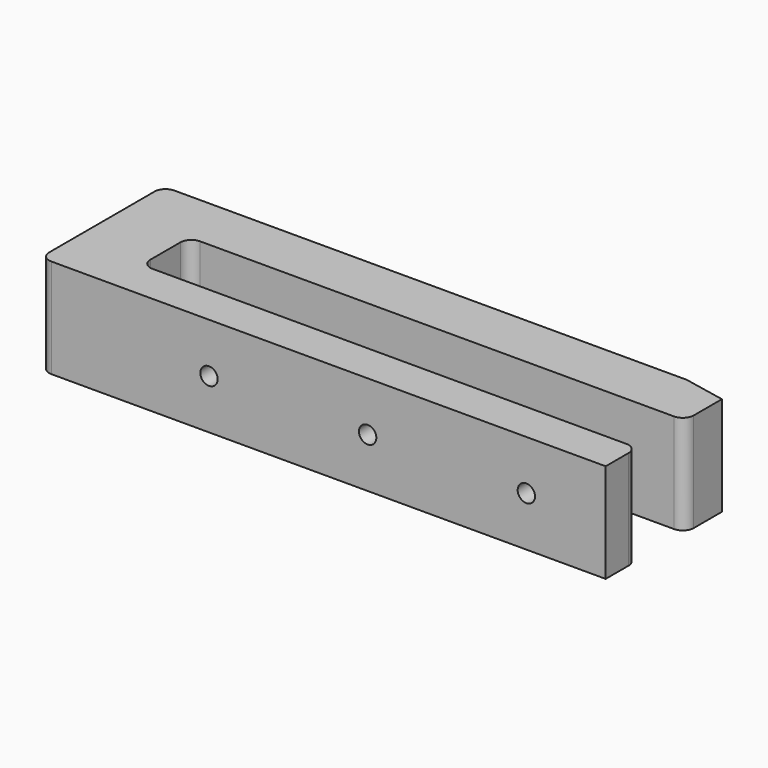
from build123d import *

# Parameters (mm, degrees)
F1_DEPTH = 5
F2_R     = 0.437463
F3_DEPTH = 4


with BuildPart() as f1:
    # F0 (on Top) → F1 (new body)
    with BuildSketch(Plane.XY):
        with BuildLine():
            Line((12.886932, 7.75), (-11.40201, 7.75))
            Line((-11.40201, 7.75), (-12.949545, 7.75))
            ThreePointArc((-12.949545, 7.75), (-13.338776, 7.588776), (-13.5, 7.199545))
            Line((-13.5, 7.199545), (-13.5, 0.550455))
            ThreePointArc((-13.5, 0.550455), (-13.338776, 0.161224), (-12.949545, 0))
            Line((-12.949545, 0), (15, 0))
            Line((15, 0), (15, 1.449545))
            ThreePointArc((15, 1.449545), (14.838776, 1.838776), (14.449545, 2))
            Line((14.449545, 2), (12.886932, 2))
            Line((12.886932, 2), (-9.449545, 2))
            ThreePointArc((-9.449545, 2), (-9.838776, 2.161224), (-10, 2.550455))
            Line((-10, 2.550455), (-10, 4.449545))
            ThreePointArc((-10, 4.449545), (-9.838776, 4.838775), (-9.449545, 5))
            Line((-9.449545, 5), (14.449545, 5))
            ThreePointArc((14.449545, 5), (14.838776, 5.161224), (15, 5.550454))
            Line((15, 5.550454), (15, 7.326077))
            Line((15, 7.326077), (12.886932, 7.75))
        make_face()
    extrude(amount=F1_DEPTH)

    # F2 (on face) → F3 (cut)
    with BuildSketch(Plane.XZ):
        with Locations((11, 2.5)):
            Circle(F2_R)
        with Locations((3, 2.5)):
            Circle(F2_R)
        with Locations((-5, 2.5)):
            Circle(F2_R)
    extrude(amount=-F3_DEPTH, mode=Mode.SUBTRACT)


solid = f1.part
